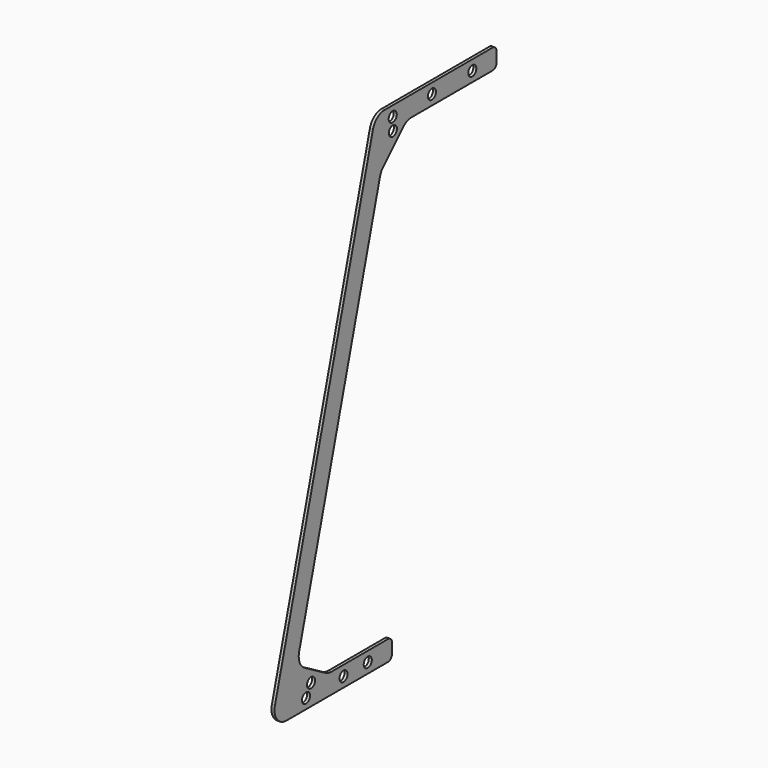
from build123d import *

# Parameters (mm, degrees)
F2_DEPTH = 6
F1_R     = 10
F3_DEPTH = 6.001
F4_R     = 10
F5_DEPTH = 6.001


with BuildPart() as f2:
    # F0 (on Right) → F2 (new body)
    with BuildSketch(Plane.YZ):
        with BuildLine():
            Line((-54.603913, -329.447112), (196.299325, -329.447112))
            ThreePointArc((196.299325, -329.447112), (203.370393, -326.51818), (206.299325, -319.447112))
            Line((206.299325, -319.447112), (206.299325, -299.447112))
            ThreePointArc((206.299325, -299.447112), (203.370393, -292.376044), (196.299325, -289.447112))
            Line((196.299325, -289.447112), (56.466816, -289.447112))
            ThreePointArc((56.466816, -289.447112), (48.702245, -288.424887), (41.466816, -285.427874))
            Line((41.466816, -285.427874), (-9.578206, -255.957017))
            ThreePointArc((-9.578206, -255.957017), (-22.294592, -241.456758), (-23.555981, -222.211683))
            Line((-23.555981, -222.211683), (176.678757, 525.074533))
            ThreePointArc((176.678757, 525.074533), (179.67577, 532.309961), (184.443329, 538.523165))
            Line((184.443329, 538.523165), (233.612082, 587.691918))
            ThreePointArc((233.612082, 587.691918), (243.344782, 594.1951), (254.825285, 596.478714))
            Line((254.825285, 596.478714), (455.118371, 596.478714))
            ThreePointArc((455.118371, 596.478714), (462.189438, 599.407646), (465.118371, 606.478714))
            Line((465.118371, 606.478714), (465.118371, 626.478714))
            ThreePointArc((465.118371, 626.478714), (462.189438, 633.549782), (455.118371, 636.478714))
            Line((455.118371, 636.478714), (188.13818, 636.478714))
            ThreePointArc((188.13818, 636.478714), (169.875337, 630.279314), (159.160405, 614.243286))
            Line((159.160405, 614.243286), (-83.581688, -291.682541))
            ThreePointArc((-83.581688, -291.682541), (-78.404514, -317.709955), (-54.603913, -329.447112))
        make_face()
    extrude(amount=-F2_DEPTH)

    # F1 (on face) → F3 (cut, through all)
    with BuildSketch(Plane.YZ):
        with Locations((405.118371, 616.478714)):
            Circle(F1_R)
        with Locations((305.118371, 616.478714)):
            Circle(F1_R)
        with Locations((146.299325, -309.447112)):
            Circle(F1_R)
        with Locations((86.299325, -309.447112)):
            Circle(F1_R)
    extrude(amount=-F3_DEPTH, mode=Mode.SUBTRACT)

    # F4 (on face) → F5 (cut, through all)
    with BuildSketch(Plane.YZ):
        with Locations((208.13818, 616.478714)):
            Circle(F4_R)
        with Locations((208.459967, 591.478714)):
            Circle(F4_R)
        with Locations((5.944305, -288.012954)):
            Circle(F4_R)
        with Locations((-6.555695, -309.663589)):
            Circle(F4_R)
    extrude(amount=-F5_DEPTH, mode=Mode.SUBTRACT)


solid = f2.part
